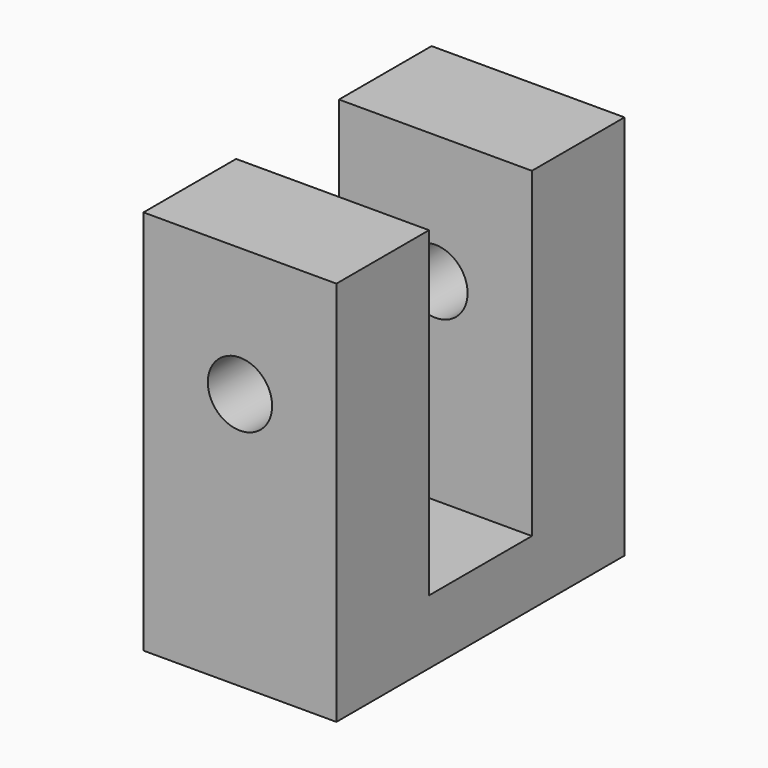
from build123d import *

# Parameters (mm, degrees)
F0_W     = 19.05
F0_H     = 38.1
F0_R     = 3.175
F1_DEPTH = 35.56
F2_W     = 12.7
F2_H     = 31.75
F3_DEPTH = 19.051
F4_R     = 3.175
F5_DEPTH = 12.7


with BuildPart() as f1:
    # F0 (on Front) → F1 (new body)
    with BuildSketch(Plane.XZ):
        with Locations((0, -6.35)):
            Rectangle(F0_W, F0_H)
        Circle(F0_R, mode=Mode.SUBTRACT)
    extrude(amount=F1_DEPTH)

    # F2 (on face) → F3 (cut, through all)
    with BuildSketch(Plane(origin=(-9.525, 0, 0), x_dir=(0, -1, 0), z_dir=(-1, 0, 0))):
        with Locations((17.78, -3.175)):
            Rectangle(F2_W, F2_H)
    extrude(amount=-F3_DEPTH, mode=Mode.SUBTRACT)

    # F4 (on face) → F5 (cut)
    with BuildSketch(Plane(origin=(0, 0, -25.4), x_dir=(1, 0, 0), z_dir=(0, 0, -1))):
        with Locations((-3.175, 4.7752)):
            Circle(F4_R)
        with Locations((-3.175, 30.7848)):
            Circle(F4_R)
    extrude(amount=-F5_DEPTH, mode=Mode.SUBTRACT)


solid = f1.part
